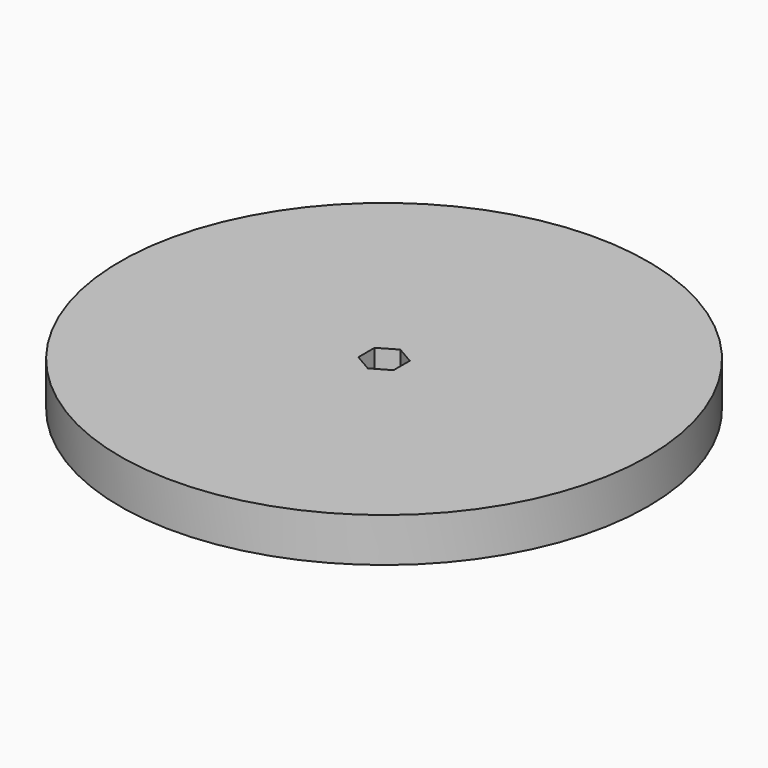
from build123d import *

# Parameters (mm, degrees)
F0_R     = 30
F1_DEPTH = 5


with BuildPart() as f1:
    # F0 (on Top) → F1 (new body)
    with BuildSketch(Plane.XY):
        Circle(F0_R)
        Polygon((2, 1.154701), (2, 0), (2, -1.154701), (1, -1.732051), (0, -2.309401), (-1, -1.732051), (-2, -1.154701), (-2, 0), (-2, 1.154701), (-1, 1.732051), (0, 2.309401), (1, 1.732051), align=None, mode=Mode.SUBTRACT)
    extrude(amount=F1_DEPTH)


solid = f1.part
